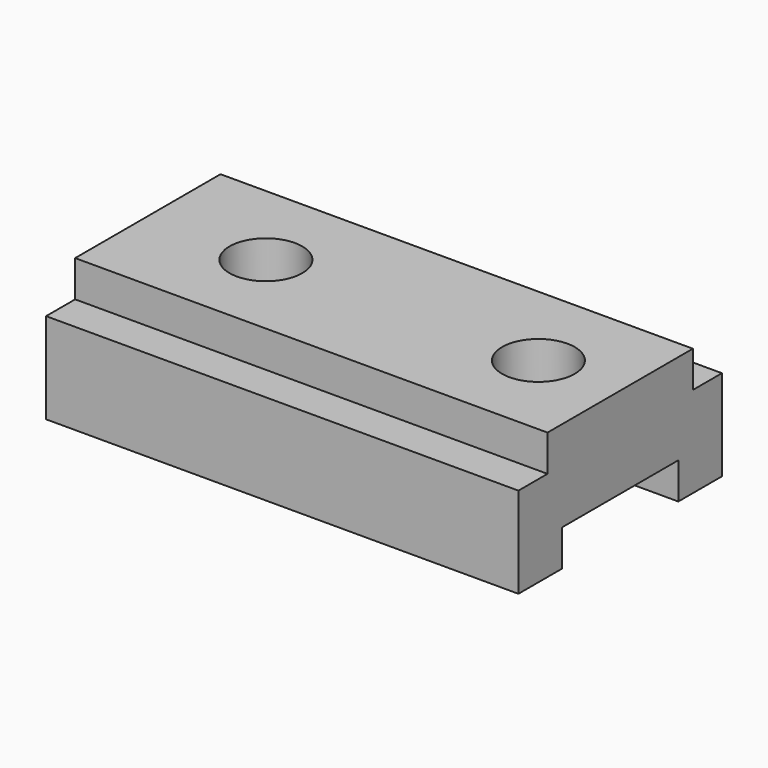
from build123d import *

# Parameters (mm, degrees)
F0_W     = 165.1
F0_H     = 44.45
F1_DEPTH = 88.9
F2_W     = 12.7
F2_H     = 12.7
F2_W_2   = 50.8
F3_DEPTH = 165.1
F4_R     = 12.7
F5_DEPTH = 254


with BuildPart() as f1:
    # F0 (on Front) → F1 (new body)
    with BuildSketch(Plane.XZ):
        with Locations((82.55, 22.225)):
            Rectangle(F0_W, F0_H)
    extrude(amount=F1_DEPTH)

    # F2 (on face) → F3 (cut)
    with BuildSketch(Plane.YZ.offset(165.1)):
        with Locations((-82.55, 38.1)):
            Rectangle(F2_W, F2_H)
        with Locations((-6.35, 38.1)):
            Rectangle(F2_W, F2_H)
        with Locations((-44.45, 6.35)):
            Rectangle(F2_W_2, F2_H)
    extrude(amount=-F3_DEPTH, mode=Mode.SUBTRACT)

    # F4 (on face) → F5 (cut)
    with BuildSketch(Plane.XY.offset(44.45)):
        with Locations((41.275, -44.45)):
            Circle(F4_R)
        with Locations((136.525, -44.45)):
            Circle(F4_R)
    extrude(amount=-F5_DEPTH, mode=Mode.SUBTRACT)


solid = f1.part
